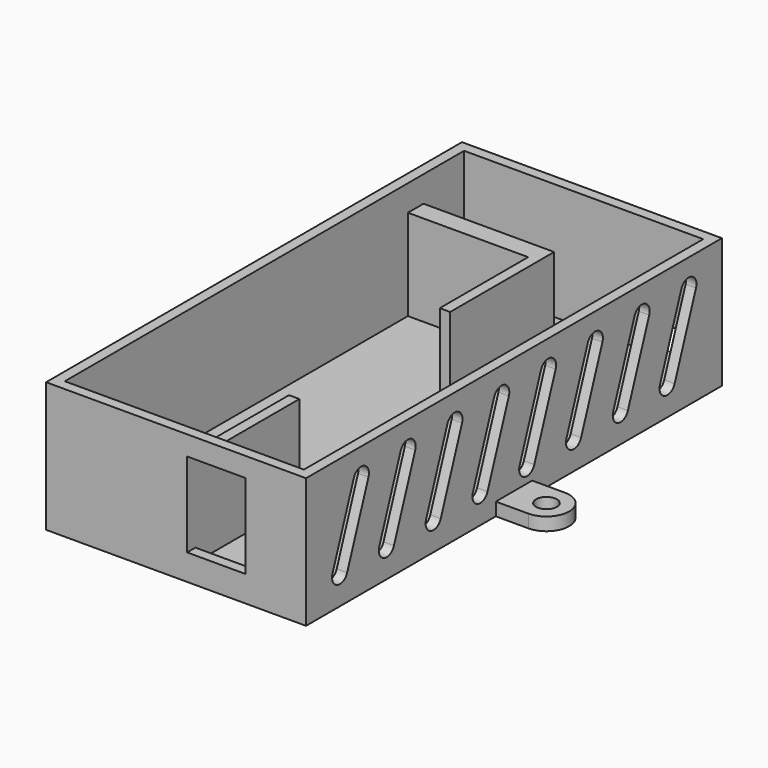
from build123d import *

# Parameters (mm, degrees)
F1_DEPTH  = 20
F2_DEPTH  = 2
F0_W      = 1.6
F0_H      = 20
F3_DEPTH  = 16
F4_W      = 9
F4_H      = 13
F5_DEPTH  = 10
F7_DEPTH  = 5
F8_W      = 7.5
F8_H      = 4.5
F9_DEPTH  = 5
F0_R      = 1.6
F10_DEPTH = 2


with BuildPart() as f1:
    # F0 (on Top) → F1 (new body)
    with BuildSketch(Plane.XY):
        Polygon((-40, 0), (0, 0), (0, 36.5), (0, 43.5), (0, 80), (-40, 80), (-40, 43.5), (-40, 36.5), align=None)
        Polygon((-1.6, 78.4), (-1.6, 1.6), (-18.3, 1.6), (-19.9, 1.6), (-38.4, 1.6), (-38.4, 67.6), (-38.4, 70.6), (-38.4, 78.4), align=None, mode=Mode.SUBTRACT)
    extrude(amount=F1_DEPTH)

    # F0 (on Top) → F2 (join)
    with BuildSketch(Plane.XY):
        Polygon((-18.3, 1.6), (-1.6, 1.6), (-1.6, 78.4), (-38.4, 78.4), (-38.4, 70.6), (-18.3, 70.6), (-18.3, 50.6), (-19.9, 50.6), (-19.9, 67.6), (-38.4, 67.6), (-38.4, 1.6), (-19.9, 1.6), (-19.9, 21.6), (-18.3, 21.6), align=None)
    extrude(amount=F2_DEPTH)

    # F0 (on Top) → F3 (join)
    with BuildSketch(Plane.XY):
        Polygon((-18.3, 70.6), (-38.4, 70.6), (-38.4, 67.6), (-19.9, 67.6), (-19.9, 50.6), (-18.3, 50.6), align=None)
        with Locations((-19.1, 11.6)):
            Rectangle(F0_W, F0_H)
    extrude(amount=F3_DEPTH)

    # F4 (on face) → F5 (cut)
    with BuildSketch(Plane.XZ):
        with Locations((-13.8, 10.5)):
            Rectangle(F4_W, F4_H)
    extrude(amount=-F5_DEPTH, mode=Mode.SUBTRACT)

    # F6 (on face) → F7 (cut)
    with BuildSketch(Plane.YZ):
        with BuildLine():
            Line((9.194703, 16.289342), (5.090461, 5.01303))
            ThreePointArc((5.090461, 5.01303), (5.98697, 3.090461), (7.909539, 3.98697))
            Line((7.909539, 3.98697), (12.013781, 15.263281))
            ThreePointArc((12.013781, 15.263281), (11.117272, 17.18585), (9.194703, 16.289342))
        make_face()
        with BuildLine():
            Line((16.909539, 3.98697), (21.013781, 15.263281))
            ThreePointArc((21.013781, 15.263281), (20.117272, 17.18585), (18.194703, 16.289342))
            Line((18.194703, 16.289342), (14.090461, 5.01303))
            ThreePointArc((14.090461, 5.01303), (14.98697, 3.090461), (16.909539, 3.98697))
        make_face()
        with BuildLine():
            Line((25.909539, 3.98697), (30.013781, 15.263281))
            ThreePointArc((30.013781, 15.263281), (29.117272, 17.18585), (27.194703, 16.289342))
            Line((27.194703, 16.289342), (23.090461, 5.01303))
            ThreePointArc((23.090461, 5.01303), (23.98697, 3.090461), (25.909539, 3.98697))
        make_face()
        with BuildLine():
            Line((34.909539, 3.98697), (39.013781, 15.263281))
            ThreePointArc((39.013781, 15.263281), (38.117272, 17.18585), (36.194703, 16.289342))
            Line((36.194703, 16.289342), (32.090461, 5.01303))
            ThreePointArc((32.090461, 5.01303), (32.98697, 3.090461), (34.909539, 3.98697))
        make_face()
        with BuildLine():
            Line((43.909539, 3.98697), (48.013781, 15.263281))
            ThreePointArc((48.013781, 15.263281), (47.117272, 17.18585), (45.194703, 16.289342))
            Line((45.194703, 16.289342), (41.090461, 5.01303))
            ThreePointArc((41.090461, 5.01303), (41.98697, 3.090461), (43.909539, 3.98697))
        make_face()
        with BuildLine():
            Line((52.909539, 3.98697), (57.013781, 15.263281))
            ThreePointArc((57.013781, 15.263281), (56.117272, 17.18585), (54.194703, 16.289342))
            Line((54.194703, 16.289342), (50.090461, 5.01303))
            ThreePointArc((50.090461, 5.01303), (50.98697, 3.090461), (52.909539, 3.98697))
        make_face()
        with BuildLine():
            Line((61.909539, 3.98697), (66.013781, 15.263281))
            ThreePointArc((66.013781, 15.263281), (65.117272, 17.18585), (63.194703, 16.289342))
            Line((63.194703, 16.289342), (59.090461, 5.01303))
            ThreePointArc((59.090461, 5.01303), (59.98697, 3.090461), (61.909539, 3.98697))
        make_face()
        with BuildLine():
            Line((70.909539, 3.98697), (75.013781, 15.263281))
            ThreePointArc((75.013781, 15.263281), (74.117272, 17.18585), (72.194703, 16.289342))
            Line((72.194703, 16.289342), (68.090461, 5.01303))
            ThreePointArc((68.090461, 5.01303), (68.98697, 3.090461), (70.909539, 3.98697))
        make_face()
    extrude(amount=-F7_DEPTH, mode=Mode.SUBTRACT)

    # F8 (on face) → F9 (cut)
    with BuildSketch(Plane(origin=(0, 80, 0), x_dir=(-1, 0, 0), z_dir=(0, 1, 0))):
        with Locations((6.35, 4.25)):
            Rectangle(F8_W, F8_H)
    extrude(amount=-F9_DEPTH, mode=Mode.SUBTRACT)

    # F0 (on Top) → F10 (join)
    with BuildSketch(Plane.XY):
        with BuildLine():
            Line((-45, 36.5), (-40, 36.5))
            Line((-40, 36.5), (-40, 43.5))
            Line((-40, 43.5), (-45, 43.5))
            ThreePointArc((-45, 43.5), (-48.5, 40), (-45, 36.5))
        make_face()
        with Locations((-45, 40)):
            Circle(F0_R, mode=Mode.SUBTRACT)
        with BuildLine():
            Line((0, 43.5), (0, 36.5))
            Line((0, 36.5), (5, 36.5))
            ThreePointArc((5, 36.5), (8.5, 40), (5, 43.5))
            Line((5, 43.5), (0, 43.5))
        make_face()
        with Locations((5, 40)):
            Circle(F0_R, mode=Mode.SUBTRACT)
    extrude(amount=F10_DEPTH)


solid = f1.part
